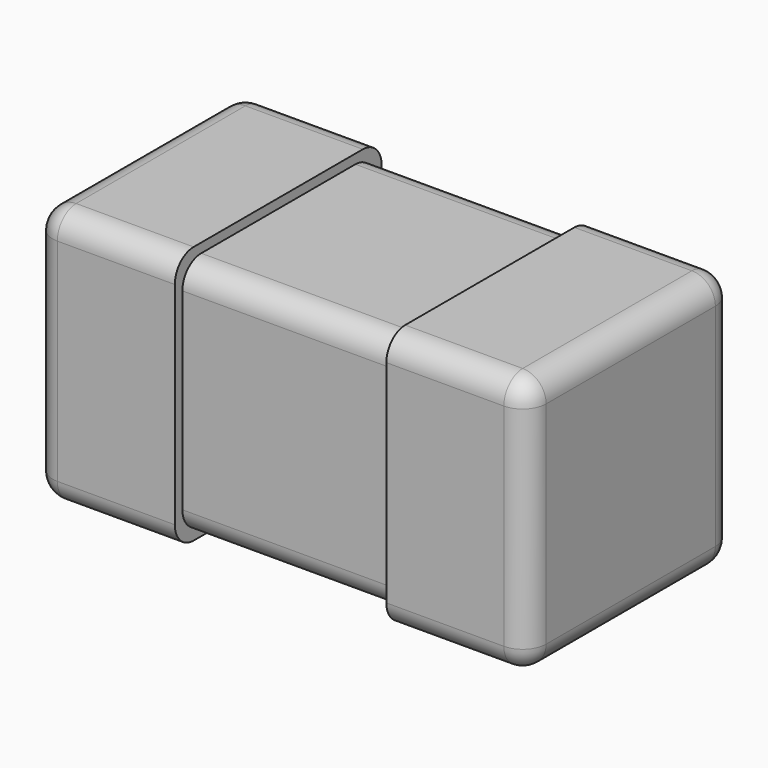
from build123d import *

# Parameters (mm, degrees)
PLATING_LEFT_W      = 0.3
PLATING_LEFT_H      = 0.55
PLATING_LEFT_DEPTH  = 0.55
PLATING_LEFT_F_R    = 0.05
PLATING_RIGHT_W     = 0.3
PLATING_RIGHT_H     = 0.55
PLATING_RIGHT_DEPTH = 0.55
PLATING_RIGHT_F_R   = 0.05
CHIP_W              = 1.01
CHIP_H              = 0.51
CHIP_DEPTH          = 0.51
CHIP_F_R            = 0.05


with BuildPart() as plating_left_f:
    # plating_left → plating_left (new body)
    with BuildSketch(Plane(origin=(-0.525, -0.275, 0), x_dir=(1, 0, 0), z_dir=(0, 0, 1))):
        with Locations((0.15, 0.275)):
            Rectangle(PLATING_LEFT_W, PLATING_LEFT_H)
    extrude(amount=PLATING_LEFT_DEPTH)

    # plating_left_f
    plating_left_f_edges = [plating_left_f.edges().sort_by_distance(p)[0] for p in [
        (-0.525, -0.275, 0.275),
        (-0.525, 0, 0.55),
        (-0.525, 0.275, 0.275),
        (-0.525, 0, 0),
        (-0.375, -0.275, 0),
        (-0.375, -0.275, 0.55),
        (-0.375, 0.275, 0),
        (-0.375, 0.275, 0.55),
    ]]
    fillet(plating_left_f_edges, radius=PLATING_LEFT_F_R)


with BuildPart() as plating_right_f:
    # plating_right → plating_right (new body)
    with BuildSketch(Plane(origin=(0.225, -0.275, 0), x_dir=(1, 0, 0), z_dir=(0, 0, 1))):
        with Locations((0.15, 0.275)):
            Rectangle(PLATING_RIGHT_W, PLATING_RIGHT_H)
    extrude(amount=PLATING_RIGHT_DEPTH)

    # plating_right_f
    plating_right_f_edges = [plating_right_f.edges().sort_by_distance(p)[0] for p in [
        (0.525, -0.275, 0.275),
        (0.525, 0, 0.55),
        (0.525, 0.275, 0.275),
        (0.525, 0, 0),
        (0.375, -0.275, 0),
        (0.375, -0.275, 0.55),
        (0.375, 0.275, 0),
        (0.375, 0.275, 0.55),
    ]]
    fillet(plating_right_f_edges, radius=PLATING_RIGHT_F_R)


with BuildPart() as capacitor:
    # chip → chip (new body)
    with BuildSketch(Plane(origin=(-0.505, -0.255, 0.02), x_dir=(1, 0, 0), z_dir=(0, 0, 1))):
        with Locations((0.505, 0.255)):
            Rectangle(CHIP_W, CHIP_H)
    extrude(amount=CHIP_DEPTH)

    # chip_f
    chip_f_edges = [capacitor.edges().sort_by_distance(p)[0] for p in [
        (0, -0.255, 0.02),
        (0, -0.255, 0.53),
        (0, 0.255, 0.02),
        (0, 0.255, 0.53),
    ]]
    fillet(chip_f_edges, radius=CHIP_F_R)

    # capacitor: union plating_left_f, plating_right_f
    add(plating_left_f.part)
    add(plating_right_f.part)


solid = capacitor.part
